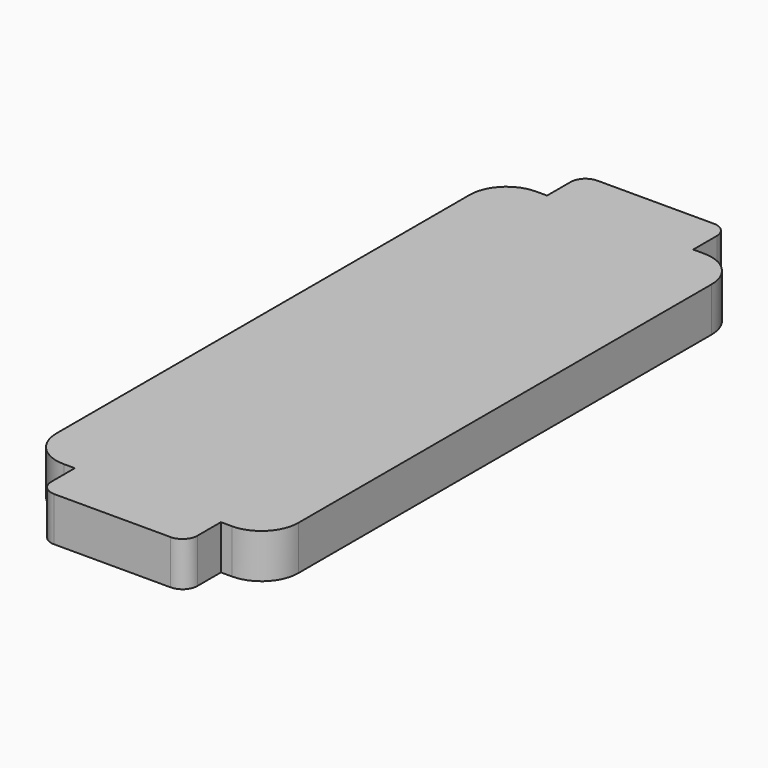
from build123d import *

# Parameters (mm, degrees)
PAD_DEPTH   = 3
FILLET_R    = 1
FILLET001_R = 2.5


with BuildPart() as part:
    # Sketch → Pad (new body)
    with BuildSketch(Plane.XY):
        Polygon((25.598985, 32.987703), (25.598985, -7.012297), (22.348985, -7.012297), (22.348985, -10.012297), (12.448985, -10.012297), (12.448985, -7.012297), (9.198985, -7.012297), (9.198985, 32.987701), (12.448985, 32.987701), (12.448985, 35.987703), (22.348985, 35.987703), (22.348985, 32.987703), align=None)
    extrude(amount=PAD_DEPTH)

    # Fillet
    fillet_edges = [part.edges().sort_by_distance(p)[0] for p in [
        (22.348985, -10.012297, 1.5),
        (12.448985, -10.012297, 1.5),
        (22.348985, 35.987703, 1.5),
        (12.448985, 35.987703, 1.5),
    ]]
    fillet(fillet_edges, radius=FILLET_R)

    # Fillet001
    fillet001_edges = [part.edges().sort_by_distance(p)[0] for p in [
        (25.598985, -7.012297, 1.5),
        (25.598985, 32.987703, 1.5),
        (9.198985, -7.012297, 1.5),
        (9.198985, 32.987701, 1.5),
    ]]
    fillet(fillet001_edges, radius=FILLET001_R)


with BuildPart() as part_1:
    # Fillet001 placement: moved
    add(part.part.moved(Location((200, 100, 0))))


solid = part_1.part
